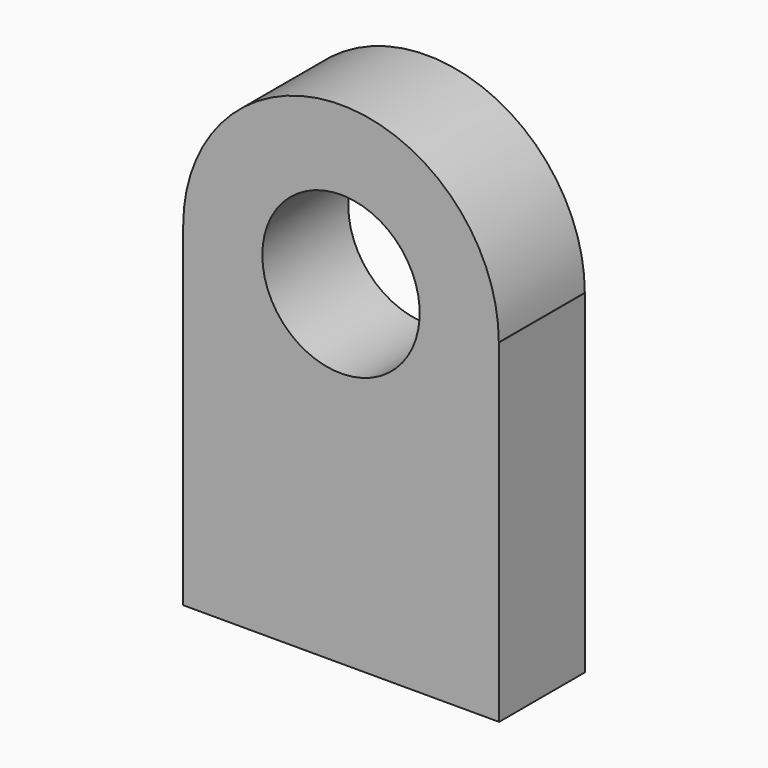
from build123d import *

# Parameters (mm, degrees)
F1_DEPTH = 25.4


with BuildPart() as f1:
    # F0 (on Front) → F1 (new body)
    with BuildSketch(Plane.XZ):
        with BuildLine():
            Line((37.3602434993, 39.4719094038), (37.2923844348, 39.4719094038))
            ThreePointArc((37.2923844348, 39.4719094038), (0, 2.179524969), (-37.2923844348, 39.4719094038))
            Line((-37.2923844348, 39.4719094038), (-37.3602434993, 39.4719094038))
            Line((-37.3602434993, 39.4719094038), (-37.3602434993, -39.4719094038))
            Line((-37.3602434993, -39.4719094038), (37.3602434993, -39.4719094038))
            Line((37.3602434993, -39.4719094038), (37.3602434993, 39.4719094038))
        make_face()
        with BuildLine():
            Line((37.2923844348, 39.4719094038), (18.5973065331, 39.4719094038))
            ThreePointArc((18.5973065331, 39.4719094038), (0, 20.8746028707), (-18.5973065331, 39.4719094038))
            Line((-18.5973065331, 39.4719094038), (-37.2923844348, 39.4719094038))
            ThreePointArc((-37.2923844348, 39.4719094038), (0, 2.179524969), (37.2923844348, 39.4719094038))
        make_face()
        with BuildLine():
            ThreePointArc((-18.5973065331, 39.4719094038), (0, 58.0692159369), (18.5973065331, 39.4719094038))
            Line((18.5973065331, 39.4719094038), (37.2923844348, 39.4719094038))
            ThreePointArc((37.2923844348, 39.4719094038), (0, 76.7642938386), (-37.2923844348, 39.4719094038))
            Line((-37.2923844348, 39.4719094038), (-18.5973065331, 39.4719094038))
        make_face()
    extrude(amount=F1_DEPTH)


solid = f1.part
